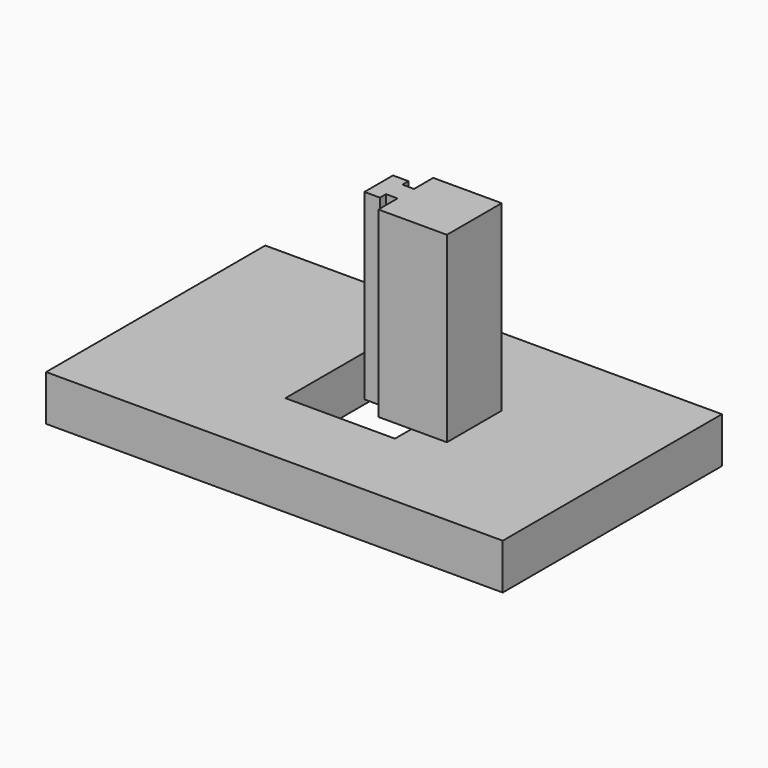
from build123d import *

# Parameters (mm, degrees)
F0_W     = 63.5
F0_H     = 38.1
F1_DEPTH = 6.35
F2_W     = 0.7357047051
F2_H     = 2.4810375154
F3_DEPTH = 25.4
F4_W     = 7.62
F4_H     = 7.62
F5_DEPTH = 6.35


with BuildPart() as f1:
    # F0 (on Top) → F1 (new body)
    with BuildSketch(Plane.XY):
        with Locations((31.75, -19.05)):
            Rectangle(F0_W, F0_H)
    extrude(amount=F1_DEPTH)

    # F2 (on face) → F3 (join)
    with BuildSketch(Plane.XY.offset(6.35)):
        with Locations((31.3821476474, -17.8094812423)):
            Rectangle(F2_W, F2_H)
        Polygon((33.1730134785, -16.5689624846), (31.75, -16.5689624846), (31.75, -19.05), (44.3069849849, -19.05), (44.3069849849, -14.2875), (34.7819849849, -14.2875), (34.7819849849, -17.6186021417), (33.1730134785, -17.6186021417), align=None)
        with Locations((31.3821476474, -20.2905187577)):
            Rectangle(F2_W, F2_H)
        Polygon((44.3069849849, -19.05), (31.75, -19.05), (31.75, -21.5310375154), (33.1730134785, -21.5310375154), (33.1730134785, -20.4813978583), (34.7819849849, -20.4813978583), (34.7819849849, -23.8125), (44.3069849849, -23.8125), align=None)
    extrude(amount=F3_DEPTH)

    # F4 (on face) → F5 (cut)
    with BuildSketch(Plane(origin=(0, 0, 0), x_dir=(1, 0, 0), z_dir=(0, 0, -1))):
        with Locations((27.94, 15.24)):
            Rectangle(F4_W, F4_H)
        with Locations((35.56, 15.24)):
            Rectangle(F4_W, F4_H)
        with Locations((35.56, 22.86)):
            Rectangle(F4_W, F4_H)
        with Locations((27.94, 22.86)):
            Rectangle(F4_W, F4_H)
    extrude(amount=-F5_DEPTH, mode=Mode.SUBTRACT)


solid = f1.part
